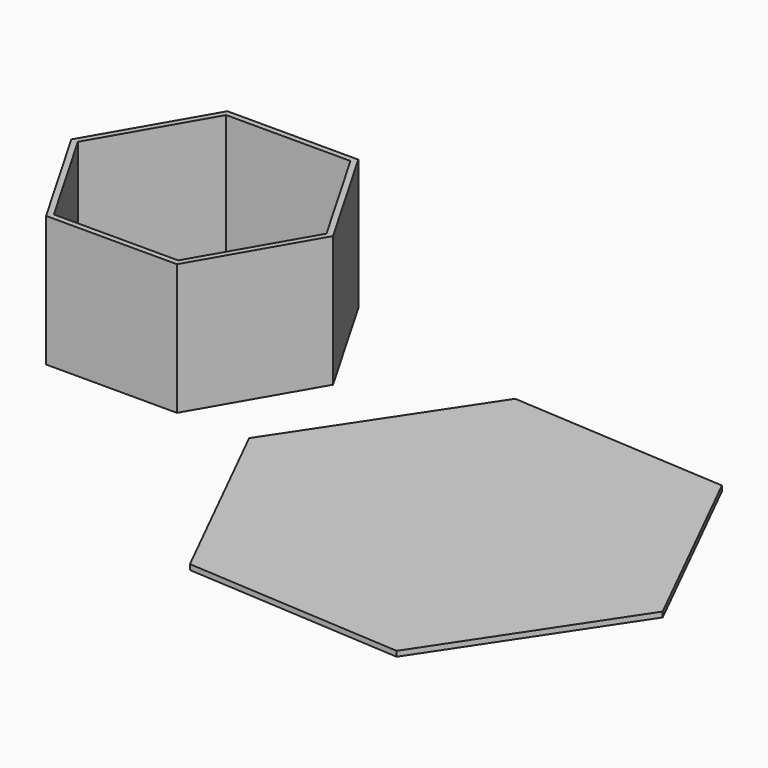
from build123d import *

# Parameters (mm, degrees)
F1_DEPTH = 2
F2_DEPTH = 50
F4_DEPTH = 2


with BuildPart() as f1:
    # F0 (on Top) → F1 (new body)
    with BuildSketch(Plane.XY):
        Polygon((25, -43.30127), (50, 0), (25, 43.30127), (-25, 43.30127), (-50, 0), (-25, -43.30127), align=None)
        Polygon((-47.5, 0), (-23.75, 41.136207), (23.75, 41.136207), (47.5, 0), (23.75, -41.136207), (-23.75, -41.136207), align=None, mode=Mode.SUBTRACT)
        Polygon((23.75, 41.136207), (-23.75, 41.136207), (-47.5, 0), (-23.75, -41.136207), (23.75, -41.136207), (47.5, 0), align=None)
    extrude(amount=F1_DEPTH)

    # F0 (on Top) → F2 (join)
    with BuildSketch(Plane.XY):
        Polygon((25, -43.30127), (50, 0), (25, 43.30127), (-25, 43.30127), (-50, 0), (-25, -43.30127), align=None)
        Polygon((-47.5, 0), (-23.75, 41.136207), (23.75, 41.136207), (47.5, 0), (23.75, -41.136207), (-23.75, -41.136207), align=None, mode=Mode.SUBTRACT)
    extrude(amount=F2_DEPTH)


with BuildPart() as f4:
    # F3 (on Top) → F4 (new body)
    with BuildSketch(Plane.XY):
        Polygon((174.644096, -125.415403), (220.745932, -55.995704), (183.677628, 18.639507), (100.507488, 23.855019), (54.405651, -45.56468), (91.473955, -120.199891), align=None)
    extrude(amount=F4_DEPTH)


solid = Compound([f1.part, f4.part])
